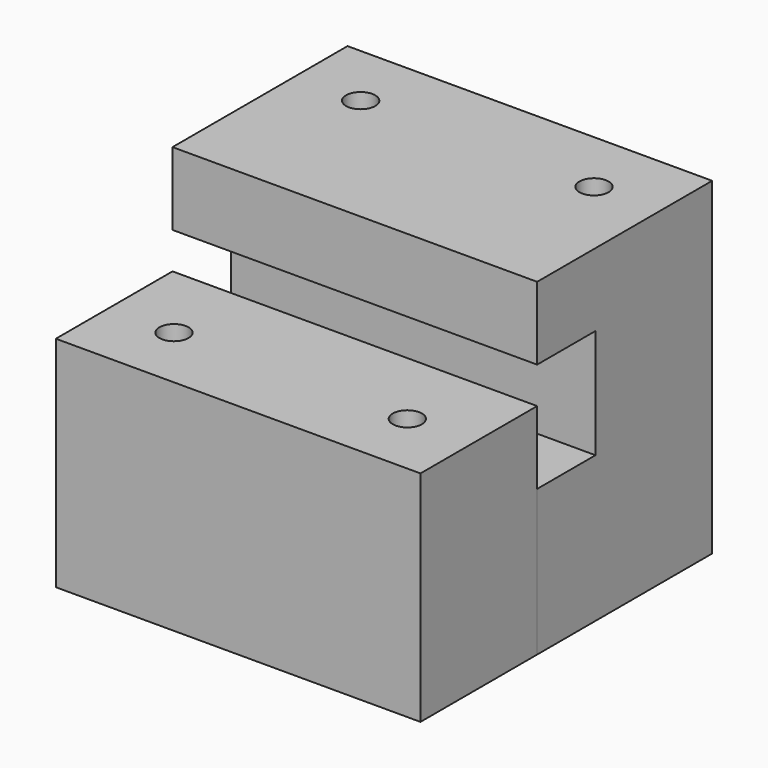
from build123d import *

# Parameters (mm, degrees)
F0_W     = 32
F0_H     = 11
F1_DEPTH = 30
F0_W_2   = 9
F0_H_2   = 10
F2_DEPTH = 20
F3_D     = 4
F4_DEPTH = 45
F5_W     = 50
F5_H     = 10
F6_DEPTH = 10
F7_D     = 4


with BuildPart() as f1:
    # F0 (on Top) → F1 (new body)
    with BuildSketch(Plane.XY):
        Polygon((25, -25), (25, -5), (16, -5), (16, -16), (-16, -16), (-16, -5), (-25, -5), (-25, -25), align=None)
        with Locations((0, -10.5)):
            Rectangle(F0_W, F0_H)
    extrude(amount=F1_DEPTH)

    # F3 (through all)
    with Locations(Plane(origin=(0, 0, 0), x_dir=(1, 0, 0), z_dir=(0, 0, -1))):
        with Locations((-16, -16), (-16, 16), (16, -16), (16, 16)):
            Hole(F3_D / 2)


with BuildPart() as f2:
    # F0 (on Top) → F2 (new body)
    with BuildSketch(Plane.XY):
        with Locations((20.5, 0)):
            Rectangle(F0_W_2, F0_H_2)
        Rectangle(F0_W, F0_H_2)
        with Locations((-20.5, 0)):
            Rectangle(F0_W_2, F0_H_2)
    extrude(amount=F2_DEPTH)

    # F0 (on Top) → F4 (join)
    with BuildSketch(Plane.XY):
        Polygon((25, 5), (25, 25), (-25, 25), (-25, 5), (-16, 5), (-16, 16), (16, 16), (16, 5), align=None)
        with Locations((0, 10.5)):
            Rectangle(F0_W, F0_H)
    extrude(amount=F4_DEPTH)

    # F5 (on face) → F6 (join)
    with BuildSketch(Plane.XY.offset(45)):
        Rectangle(F5_W, F5_H)
    extrude(amount=-F6_DEPTH)

    # F7 (through all)
    with Locations(Plane(origin=(0, 0, 0), x_dir=(1, 0, 0), z_dir=(0, 0, -1))):
        with Locations((-16, -16), (16, -16)):
            Hole(F7_D / 2)


solid = Compound([f1.part, f2.part])
